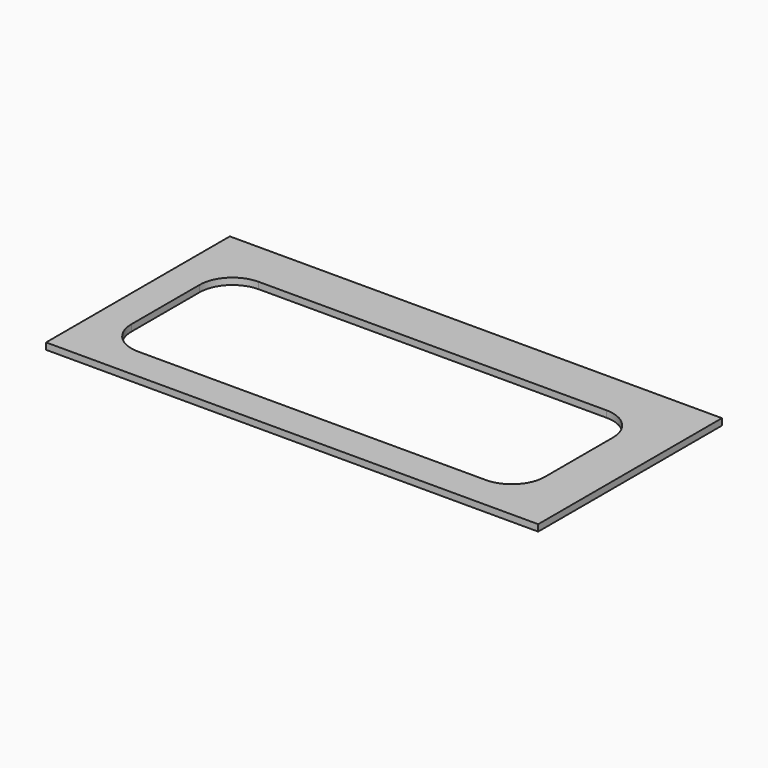
from build123d import *

# Parameters (mm, degrees)
BOX003_W     = 126
BOX003_H     = 46
BOX003_DEPTH = 10
FILLET005_R  = 10
BOX004_W     = 150
BOX004_H     = 70
BOX004_DEPTH = 2


with BuildPart() as fillet005:
    # Box003 → Box003 (new body)
    with BuildSketch(Plane.XY):
        with Locations((63, 23)):
            Rectangle(BOX003_W, BOX003_H)
    extrude(amount=BOX003_DEPTH)

    # Fillet005
    fillet005_edges = [fillet005.edges().sort_by_distance(p)[0] for p in [
        (0, 0, 5),
        (0, 46, 5),
        (126, 0, 5),
        (126, 46, 5),
    ]]
    fillet(fillet005_edges, radius=FILLET005_R)


with BuildPart() as cut001:
    # Box004 → Box004 (new body)
    with BuildSketch(Plane(origin=(-10, -10, 0), x_dir=(1, 0, 0), z_dir=(0, 0, 1))):
        with Locations((75, 35)):
            Rectangle(BOX004_W, BOX004_H)
    extrude(amount=BOX004_DEPTH)

    # Cut001: cut Fillet005
    add(fillet005.part, mode=Mode.SUBTRACT)


solid = cut001.part
